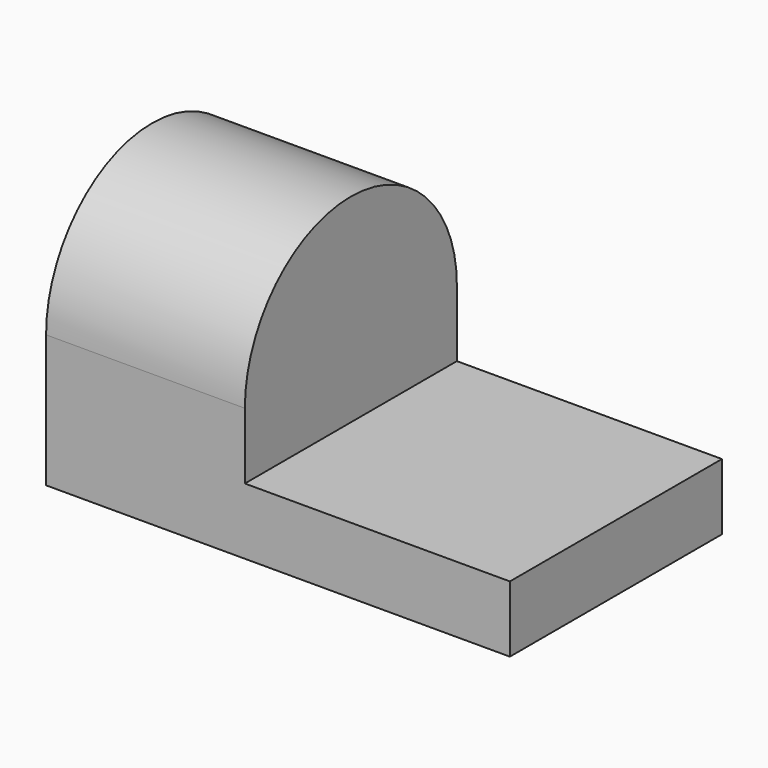
from build123d import *

# Parameters (mm, degrees)
F1_DEPTH = 25.4
F3_DEPTH = 19.05


with BuildPart() as f1:
    # F0 (on Front) → F1 (new body)
    with BuildSketch(Plane.XZ):
        Polygon((0, 12.7), (0, 0), (44.45, 0), (44.45, 6.35), (19.05, 6.35), (19.05, 12.7), align=None)
    extrude(amount=F1_DEPTH)

    # F2 (on face) → F3 (join, through all)
    with BuildSketch(Plane.YZ.offset(19.05)):
        with BuildLine():
            Line((-25.4, 12.7), (0, 12.7))
            ThreePointArc((0, 12.7), (-12.7, 25.4), (-25.4, 12.7))
        make_face()
    extrude(amount=-F3_DEPTH)


solid = f1.part
